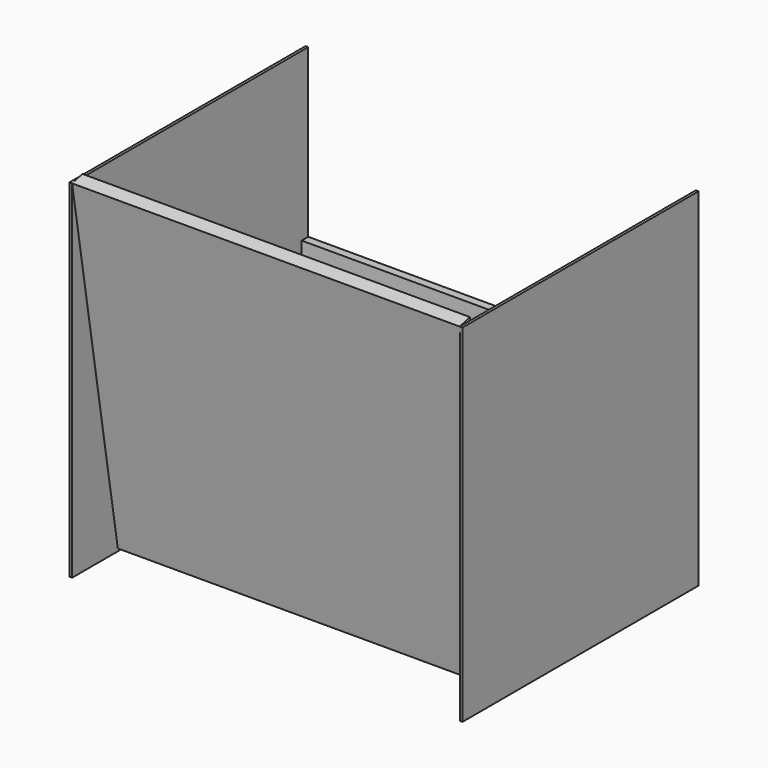
from build123d import *

# Parameters (mm, degrees)
F1_DEPTH = 457.2
F2_W     = 348.136375
F2_H     = 409.474525
F3_DEPTH = 3.175
F5_DEPTH = 3.175


with BuildPart() as f1:
    # F0 (on Right) → F1 (new body)
    with BuildSketch(Plane.YZ):
        Polygon((-171.577127, 189.078227), (-186.606751, 185.322377), (-119.288963, -221.077623), (-102.704249, -218.330462), (-129.442383, -56.911347), (161.529624, -56.911347), (161.529624, -11.644491), (151.829575, -11.644491), (151.829575, -43.97796), (-132.97273, -43.97796), align=None)
    extrude(amount=F1_DEPTH)

    # F2 (on face) → F3 (join)
    with BuildSketch(Plane.YZ.offset(457.2)):
        with Locations((-12.538564, -19.414885)):
            Rectangle(F2_W, F2_H)
    extrude(amount=F3_DEPTH)


with BuildPart() as f5:
    # F4 (on face) → F5 (new body)
    with BuildSketch(Plane(origin=(0, 0, 0), x_dir=(0, -1, 0), z_dir=(-1, 0, 0))):
        Polygon((-161.529624, -11.644491), (-161.529624, -56.911347), (-161.529624, -224.152148), (186.606751, -224.152148), (186.606751, 185.322377), (170.954992, 185.322377), (-161.529624, 185.322377), align=None)
    extrude(amount=F5_DEPTH)


solid = Compound([f1.part, f5.part])
